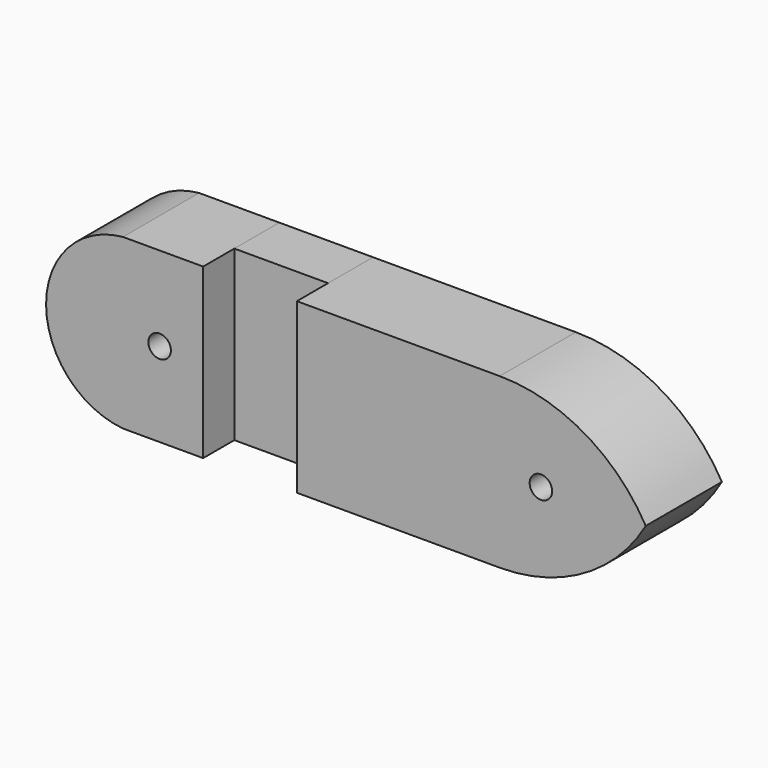
from build123d import *

# Parameters (mm, degrees)
F0_R     = 3
F0_W     = 54.11927
F0_H     = 45
F0_W_2   = 21.41182
F1_DEPTH = 25.4
F0_W_3   = 25
F2_DEPTH = 15


with BuildPart() as f1:
    # F0 (on Front) → F1 (new body)
    with BuildSketch(Plane.XZ):
        with BuildLine():
            ThreePointArc((89.236689, 0), (72.765545, 16.471143), (50.265545, 22.5))
            Line((50.265545, 22.5), (50.265545, -22.5))
            ThreePointArc((50.265545, -22.5), (72.765545, -16.471143), (89.236689, 0))
        make_face()
        with Locations((61.255336, 0)):
            Circle(F0_R, mode=Mode.SUBTRACT)
        with Locations((23.20591, 0)):
            Rectangle(F0_W, F0_H)
        with Locations((-39.559635, 0)):
            Rectangle(F0_W_2, F0_H)
        with Locations((-40.464185, 0)):
            Circle(F0_R, mode=Mode.SUBTRACT)
        with BuildLine():
            Line((-50.265545, -22.5), (-50.265545, 22.5))
            ThreePointArc((-50.265545, 22.5), (-70.763311, 0), (-50.265545, -22.5))
        make_face()
    extrude(amount=F1_DEPTH)


with BuildPart() as f2:
    # F0 (on Front) → F2 (new body)
    with BuildSketch(Plane.XZ):
        with Locations((-16.353725, 0)):
            Rectangle(F0_W_3, F0_H)
    extrude(amount=F2_DEPTH)


solid = Compound([f1.part, f2.part])
